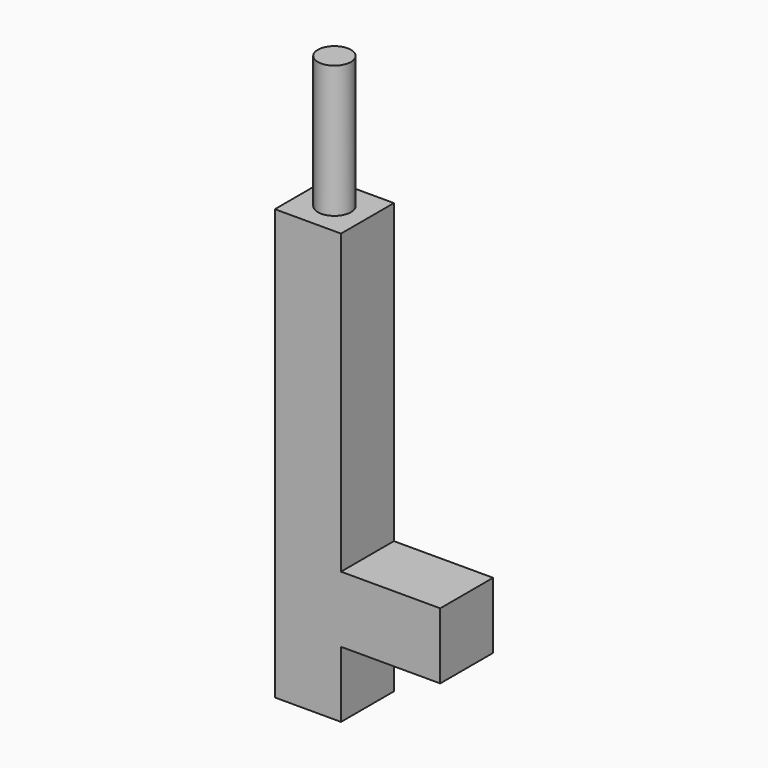
from build123d import *

# Parameters (mm, degrees)
F1_DEPTH = 10
F2_R     = 2.5
F3_DEPTH = 20


with BuildPart() as f1:
    # F0 (on Front) → F1 (new body)
    with BuildSketch(Plane.XZ):
        Polygon((-5, -32.5), (5, -32.5), (5, -22.5), (20, -22.5), (20, -12.5), (5, -12.5), (5, 32.5), (-5, 32.5), align=None)
    extrude(amount=F1_DEPTH)

    # F2 (on face) → F3 (join)
    with BuildSketch(Plane.XY.offset(32.5)):
        with Locations((0, -5)):
            Circle(F2_R)
    extrude(amount=F3_DEPTH)


solid = f1.part
